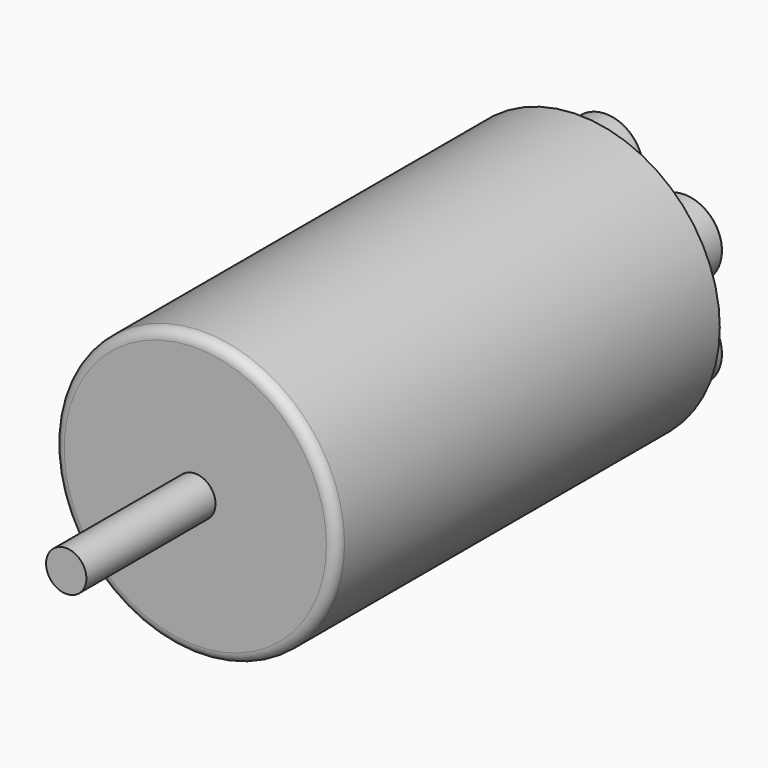
from build123d import *

# Parameters (mm, degrees)
F0_R     = 28
F1_DEPTH = 95
F2_R     = 4
F3_DEPTH = 32
F5_DEPTH = 7
F6_R     = 0.5
F7_R     = 2


with BuildPart() as f1:
    # F0 (on Front) → F1 (new body)
    with BuildSketch(Plane.XZ):
        Circle(F0_R)
    extrude(amount=F1_DEPTH)

    # F2 (on face) → F3 (join)
    with BuildSketch(Plane.XZ.offset(95)):
        Circle(F2_R)
    extrude(amount=F3_DEPTH)

    # F4 (on face) → F5 (join)
    with BuildSketch(Plane(origin=(0, 0, 0), x_dir=(-1, 0, 0), z_dir=(0, 1, 0))):
        with BuildLine():
            ThreePointArc((7.5, 18), (-5.3033008589, 23.3033008589), (0, 10.5))
            ThreePointArc((0, 10.5), (5.3033008589, 12.6966991411), (7.5, 18))
        make_face()
        with BuildLine():
            ThreePointArc((5.5, 18), (3.8890872965, 14.1109127035), (0, 12.5))
            ThreePointArc((0, 12.5), (-3.8890872965, 21.8890872965), (5.5, 18))
        make_face(mode=Mode.SUBTRACT)
        with BuildLine():
            ThreePointArc((-8.0884572681, 9), (-22.8329009653, 10.9411428383), (-9.0932667397, 5.25))
            ThreePointArc((-9.0932667397, 5.25), (-8.344013571, 7.0588571617), (-8.0884572681, 9))
        make_face()
        with BuildLine():
            ThreePointArc((-10.0884572681, 9), (-10.2758652235, 7.5764952519), (-10.8253175473, 6.25))
            ThreePointArc((-10.8253175473, 6.25), (-20.9010493127, 10.4235047481), (-10.0884572681, 9))
        make_face(mode=Mode.SUBTRACT)
        with BuildLine():
            ThreePointArc((-8.0884572681, -9), (-8.344013571, -7.0588571617), (-9.0932667397, -5.25))
            ThreePointArc((-9.0932667397, -5.25), (-22.8329009653, -10.9411428383), (-8.0884572681, -9))
        make_face()
        with BuildLine():
            ThreePointArc((-10.0884572681, -9), (-20.9010493127, -10.4235047481), (-10.8253175473, -6.25))
            ThreePointArc((-10.8253175473, -6.25), (-10.2758652235, -7.5764952519), (-10.0884572681, -9))
        make_face(mode=Mode.SUBTRACT)
        with BuildLine():
            ThreePointArc((7.5, -18), (5.3033008589, -12.6966991411), (0, -10.5))
            ThreePointArc((0, -10.5), (-5.3033008589, -23.3033008589), (7.5, -18))
        make_face()
        with BuildLine():
            ThreePointArc((5.5, -18), (-3.8890872965, -21.8890872965), (0, -12.5))
            ThreePointArc((0, -12.5), (3.8890872965, -14.1109127035), (5.5, -18))
        make_face(mode=Mode.SUBTRACT)
        with BuildLine():
            ThreePointArc((23.0884572681, -9), (17.5296001064, -1.7555563028), (9.0932667397, -5.25))
            ThreePointArc((9.0932667397, -5.25), (13.6473144299, -16.2444436972), (23.0884572681, -9))
        make_face()
        with BuildLine():
            ThreePointArc((21.0884572681, -9), (14.1649525201, -14.3125920446), (10.8253175473, -6.25))
            ThreePointArc((10.8253175473, -6.25), (17.0119620162, -3.6874079554), (21.0884572681, -9))
        make_face(mode=Mode.SUBTRACT)
        with BuildLine():
            ThreePointArc((23.0884572681, 9), (13.6473144299, 16.2444436972), (9.0932667397, 5.25))
            ThreePointArc((9.0932667397, 5.25), (17.5296001064, 1.7555563028), (23.0884572681, 9))
        make_face()
        with BuildLine():
            ThreePointArc((21.0884572681, 9), (17.0119620162, 3.6874079554), (10.8253175473, 6.25))
            ThreePointArc((10.8253175473, 6.25), (14.1649525201, 14.3125920446), (21.0884572681, 9))
        make_face(mode=Mode.SUBTRACT)
    extrude(amount=F5_DEPTH)

    # F6
    f6_edges = [f1.edges().sort_by_distance(p)[0] for p in [
        (-22.083648, 7, -12.75),
        (-20.351597, 7, -11.75),
        (-10.088457, 7, 9),
        (-22.083648, 7, 12.75),
        (0, 7, -25.5),
        (0, 7, -23.5),
        (22.083648, 7, -12.75),
        (20.351597, 7, -11.75),
        (20.351597, 7, 11.75),
        (22.083648, 7, 12.75),
        (0, 7, 25.5),
        (0, 7, 23.5),
    ]]
    fillet(f6_edges, radius=F6_R)

    # F7
    f7_edges = [f1.edges().sort_by_distance(p)[0] for p in [
        (-28, -95, 0),
    ]]
    fillet(f7_edges, radius=F7_R)


solid = f1.part
